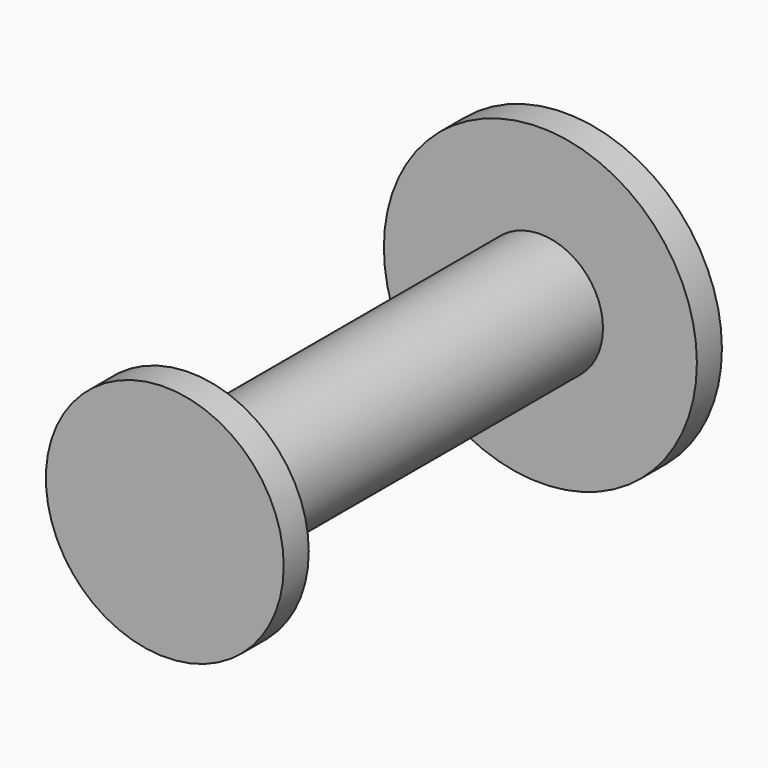
from build123d import *

# Parameters (mm, degrees)
F0_R     = 25
F1_DEPTH = 5
F2_R     = 10
F3_DEPTH = 70
F4_R     = 19
F5_DEPTH = 5


with BuildPart() as f1:
    # F0 (on Front) → F1 (new body)
    with BuildSketch(Plane.XZ):
        Circle(F0_R)
        Circle(F0_R)
    extrude(amount=F1_DEPTH)

    # F2 (on face) → F3 (join)
    with BuildSketch(Plane.XZ.offset(5)):
        Circle(F2_R)
    extrude(amount=F3_DEPTH)

    # F4 (on face) → F5 (join)
    with BuildSketch(Plane.XZ.offset(75)):
        Circle(F4_R)
    extrude(amount=F5_DEPTH)


solid = f1.part
